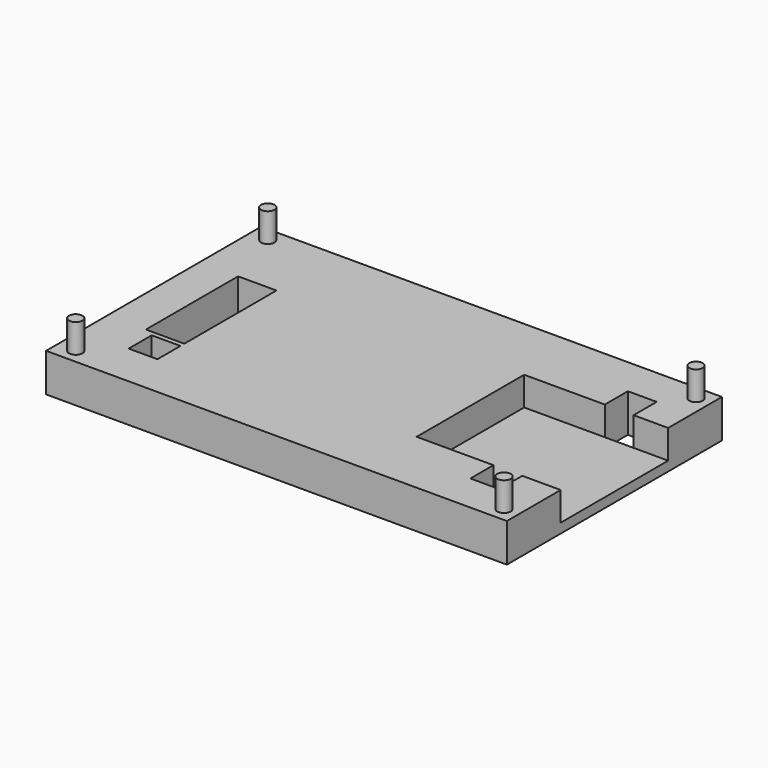
from build123d import *

# Parameters (mm, degrees)
SKETCH_W               = 48
SKETCH_H               = 28
PAD_DEPTH              = 4
SKETCH001_W            = 14
SKETCH001_H            = 3
POCKET_DEPTH           = 15
SKETCH002_W            = 4
SKETCH002_H            = 12
SKETCH002_W_2          = 3
SKETCH002_H_2          = 3
POCKET001_DEPTH        = 4.001
SKETCH003_R            = 0.7
PAD001_DEPTH           = 3
FUSION_PLACEMENT_ANGLE = 180


with BuildPart() as pocket001:
    # Sketch → Pad (new body)
    with BuildSketch(Plane.XY):
        with Locations((24, 14)):
            Rectangle(SKETCH_W, SKETCH_H)
    extrude(amount=PAD_DEPTH)

    # Sketch001 → Pocket (cut)
    with BuildSketch(Plane(origin=(0, 0, 0), x_dir=(0, -1, 0), z_dir=(-1, 0, 0))):
        with Locations((-14, 1.5)):
            Rectangle(SKETCH001_W, SKETCH001_H)
    extrude(amount=-POCKET_DEPTH, mode=Mode.SUBTRACT)

    # Sketch002 → Pocket001 (cut, through all)
    with BuildSketch(Plane.XY.offset(4)):
        with Locations((42, 14)):
            Rectangle(SKETCH002_W, SKETCH002_H)
        with Locations((41.5, 6)):
            Rectangle(SKETCH002_W_2, SKETCH002_H_2)
        with Locations((5.5, 5.5)):
            Rectangle(SKETCH002_W_2, SKETCH002_H_2)
        with Locations((5.098741, 22.5)):
            Rectangle(SKETCH002_W_2, SKETCH002_H_2)
    extrude(amount=-POCKET001_DEPTH, mode=Mode.SUBTRACT)


with BuildPart() as fusion:
    # Pad001 base: copy of Pocket001
    add(pocket001.part)

    # Sketch003 → Pad001 (new body)
    with BuildSketch(Plane(origin=(0, 0, 0), x_dir=(1, 0, 0), z_dir=(0, 0, -1))):
        with Locations((1.5, -1.5)):
            Circle(SKETCH003_R)
        with Locations((1.5, -26.5)):
            Circle(SKETCH003_R)
        with Locations((46.109886, -26.5)):
            Circle(SKETCH003_R)
        with Locations((46.109886, -1.5)):
            Circle(SKETCH003_R)
    extrude(amount=PAD001_DEPTH)

    # Fusion: union Pocket001
    add(pocket001.part)


with BuildPart() as fusion_1:
    # Fusion placement: moved
    add(fusion.part.rotate(Axis((0, 0, 0), (0, 1, 0)), FUSION_PLACEMENT_ANGLE))


solid = fusion_1.part
